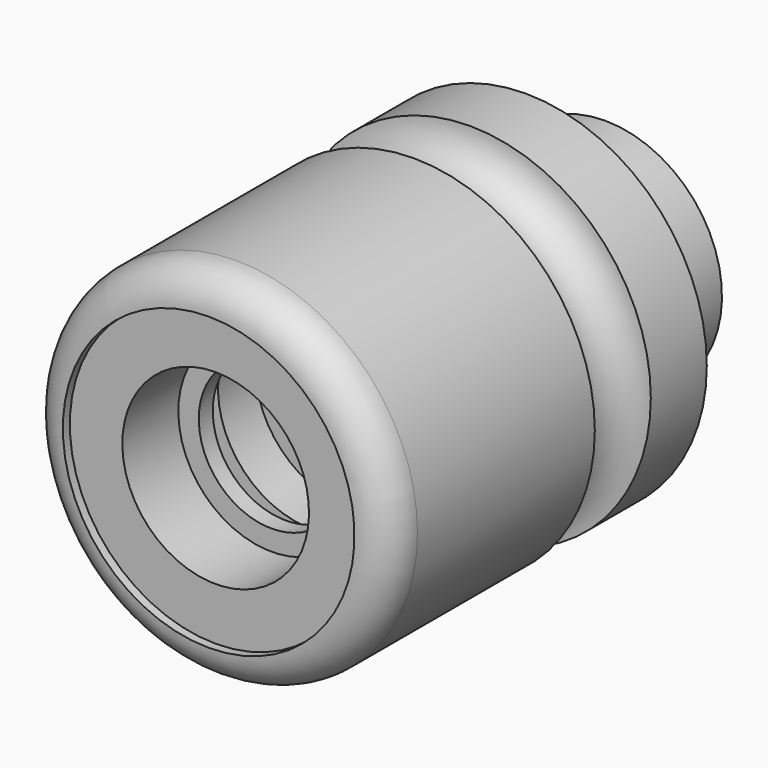
from build123d import *

# Parameters (mm, degrees)
F0_W     = 30
F0_H     = 160
F2_W     = 30
F2_H     = 125
F2_W_2   = 80
F2_H_2   = 160
F4_R     = 60
F5_DEPTH = 580.001


with BuildPart() as f1:
    # F0 (on Right) → F1 (revolve)
    with BuildSketch(Plane.YZ):
        with BuildLine():
            Line((0, 250), (0, 0))
            Line((0, 0), (680, 0))
            Line((680, 0), (680, 200))
            Line((680, 200), (680, 310))
            Line((680, 310), (560, 310))
            ThreePointArc((560, 310), (500, 250), (440, 310))
            Line((440, 310), (60, 310))
            ThreePointArc((60, 310), (17.573593, 292.426407), (0, 250))
        make_face()
        Polygon((680, 200), (680, 0), (850, 0), (850, 160), (850, 200), align=None)
        with Locations((865, 80)):
            Rectangle(F0_W, F0_H)
    revolve(axis=Axis((0, 440, 0), (0, 1, 0)))

    # F2 (on Right) → F3 (revolve, cut)
    with BuildSketch(Plane.YZ):
        Polygon((0, 250), (0, 0), (15, 0), (15, 160), (15, 250), align=None)
        Polygon((15, 160), (15, 0), (135, 0), (135, 125), (135, 160), align=None)
        with Locations((150, 62.5)):
            Rectangle(F2_W, F2_H)
        Polygon((165, 125), (165, 0), (220, 0), (220, 160), (220, 205), (165, 205), align=None)
        with Locations((260, 80)):
            Rectangle(F2_W_2, F2_H_2)
    revolve(axis=Axis((0, 192.5, 0), (0, 1, 0)), mode=Mode.SUBTRACT)

    # F4 (on face) → F5 (cut, through all)
    with BuildSketch(Plane.XZ.offset(-300)):
        Circle(F4_R)
    extrude(amount=-F5_DEPTH, mode=Mode.SUBTRACT)


solid = f1.part
